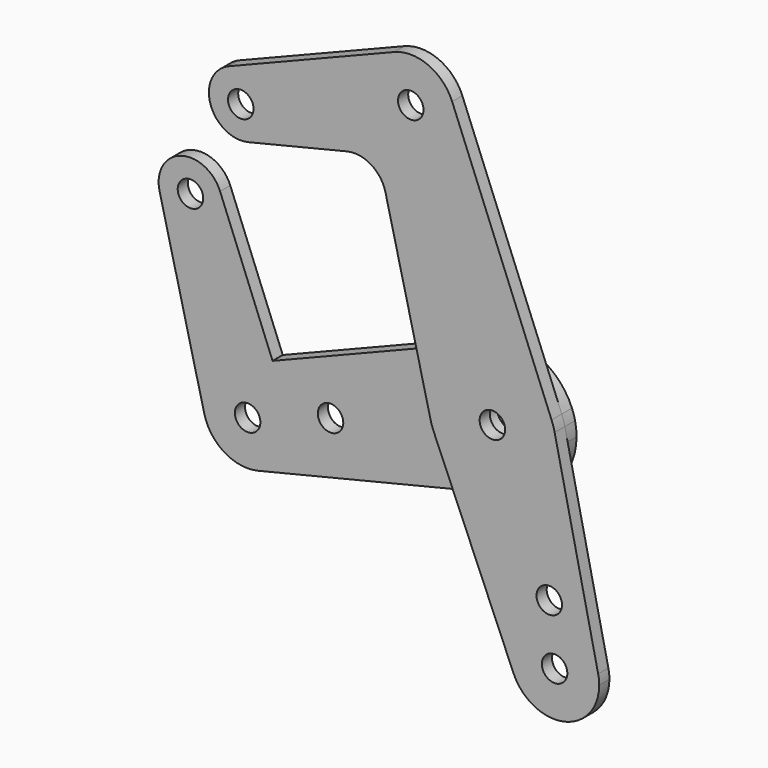
from build123d import *

# Parameters (mm, degrees)
F0_R     = 3.175
F0_R_2   = 3.9751
F1_DEPTH = 3.175
F2_DEPTH = 3.175


with BuildPart() as f1:
    # F0 (on Front) → F1 (new body)
    with BuildSketch(Plane.XZ):
        with BuildLine():
            ThreePointArc((-65.6172653325, 57.3140615488), (-58.215982182, 56.5213450997), (-54.7257527872, 49.9467203641))
            ThreePointArc((-54.7257527872, 49.9467203641), (-56.4230836871, 45.0411932922), (-60.7891722147, 42.2336322499))
            Line((-60.7891722147, 42.2336322499), (-36.2299590675, 48.2008847372))
            ThreePointArc((-36.2299590675, 48.2008847372), (-30.217472055, 47.2654543159), (-26.6274509109, 42.3525347834))
            Line((-26.6274509109, 42.3525347834), (-18.6733882929, 9.6162764074))
            Line((-18.6733882929, 9.6162764074), (-5.9080250905, 14.7346823695))
            ThreePointArc((-5.9080250905, 14.7346823695), (6.2413892171, 14.596598427), (14.7346823695, 5.9080250905))
            Line((14.7346823695, 5.9080250905), (-10.0156417952, 67.6356175634))
            ThreePointArc((-10.0156417952, 67.6356175634), (-9.418799742, 65.6059731442), (-9.2174194538, 63.5))
            ThreePointArc((-9.2174194538, 63.5), (-26.5560983011, 54.2955253702), (-24.4655370172, 73.8142776586))
            Line((-24.4655370172, 73.8142776586), (-65.6172653325, 57.3140615488))
        make_face()
        with BuildLine():
            Line((26.343839333, -45.9997429117), (15.5062527029, 3.4017278132))
            ThreePointArc((15.5062527029, 3.4017278132), (15.7825439435, 1.7108277736), (15.875, 0))
            ThreePointArc((15.875, 0), (12.4803382001, -9.8110541438), (3.748161145, -15.4261762285))
            Line((3.748161145, -15.4261762285), (-9.3167417356, -18.6006091284))
            Line((-9.3167417356, -18.6006091284), (5.270395532, -52.7465368502))
            ThreePointArc((5.270395532, -52.7465368502), (12.1011425321, -37.7976190476), (26.343839333, -45.9997429117))
        make_face()
        with Locations((14.1607330189, -33.8178133593)):
            Circle(F0_R, mode=Mode.SUBTRACT)
        with BuildLine():
            ThreePointArc((15.5062527029, 3.4017278132), (15.1723076697, 4.6708355759), (14.7346823695, 5.9080250905))
            ThreePointArc((14.7346823695, 5.9080250905), (6.2413892171, 14.596598427), (-5.9080250905, 14.7346823695))
            ThreePointArc((-5.9080250905, 14.7346823695), (-14.1135010743, 7.2680611187), (-15.4261762285, -3.748161145))
            ThreePointArc((-15.4261762285, -3.748161145), (-15.0638913216, -5.0094713546), (-14.598667013, -6.2365492417))
            ThreePointArc((-14.598667013, -6.2365492417), (-7.1095485396, -14.1940108695), (3.748161145, -15.4261762285))
            ThreePointArc((3.748161145, -15.4261762285), (12.4803382001, -9.8110541438), (15.875, 0))
            ThreePointArc((15.875, 0), (15.7825439435, 1.7108277736), (15.5062527029, 3.4017278132))
        make_face()
        Circle(F0_R_2, mode=Mode.SUBTRACT)
        Circle(F0_R_2)
        Circle(F0_R, mode=Mode.SUBTRACT)
        with BuildLine():
            ThreePointArc((26.601962441, -48.380952381), (26.5372432015, -47.1833729394), (26.343839333, -45.9997429117))
            ThreePointArc((26.343839333, -45.9997429117), (12.1011425321, -37.7976190476), (5.270395532, -52.7465368502))
            ThreePointArc((5.270395532, -52.7465368502), (17.7174969137, -59.2678031027), (26.601962441, -48.380952381))
        make_face()
        with Locations((15.489462441, -48.380952381)):
            Circle(F0_R, mode=Mode.SUBTRACT)
        with BuildLine():
            ThreePointArc((-10.0156417952, 67.6356175634), (-15.9609470018, 73.7176188989), (-24.4655370172, 73.8142776586))
            ThreePointArc((-24.4655370172, 73.8142776586), (-26.5560983011, 54.2955253702), (-9.2174194538, 63.5))
            ThreePointArc((-9.2174194538, 63.5), (-9.418799742, 65.6059731442), (-10.0156417952, 67.6356175634))
        make_face()
        with Locations((-20.3299194538, 63.5)):
            Circle(F0_R, mode=Mode.SUBTRACT)
        with BuildLine():
            ThreePointArc((-60.7891722147, 42.2336322499), (-56.4230836871, 45.0411932922), (-54.7257527872, 49.9467203641))
            ThreePointArc((-54.7257527872, 49.9467203641), (-58.215982182, 56.5213450997), (-65.6172653325, 57.3140615488))
            ThreePointArc((-65.6172653325, 57.3140615488), (-70.2227765967, 47.5264918577), (-60.7891722147, 42.2336322499))
        make_face()
        with Locations((-62.6632527872, 49.9467203641)):
            Circle(F0_R, mode=Mode.SUBTRACT)
        with BuildLine():
            Line((-5.9080250905, 14.7346823695), (-18.6733882929, 9.6162764074))
            Line((-18.6733882929, 9.6162764074), (-15.4261762285, -3.748161145))
            ThreePointArc((-15.4261762285, -3.748161145), (-14.1135010743, 7.2680611187), (-5.9080250905, 14.7346823695))
        make_face()
        with BuildLine():
            ThreePointArc((3.748161145, -15.4261762285), (-7.1095485396, -14.1940108695), (-14.598667013, -6.2365492417))
            Line((-14.598667013, -6.2365492417), (-9.3167417356, -18.6006091284))
            Line((-9.3167417356, -18.6006091284), (3.748161145, -15.4261762285))
        make_face()
    extrude(amount=F1_DEPTH)


with BuildPart() as f2:
    # F0 (on Front) → F2 (new body)
    with BuildSketch(Plane.XZ):
        with BuildLine():
            Line((-15.4261762285, -3.748161145), (-18.6733882929, 9.6162764074))
            Line((-18.6733882929, 9.6162764074), (-57.2861116204, -5.8658990826))
            Line((-57.2861116204, -5.8658990826), (-53.1716812698, -16.2294940542))
            ThreePointArc((-53.1716812698, -16.2294940542), (-52.5853058188, -18.2425509716), (-52.3875, -20.3299194538))
            ThreePointArc((-52.3875, -20.3299194538), (-54.7637632599, -27.1976573545), (-60.8762871985, -31.1282428138))
            Line((-60.8762871985, -31.1282428138), (-9.3167417356, -18.6006091284))
            Line((-9.3167417356, -18.6006091284), (-14.598667013, -6.2365492417))
            ThreePointArc((-14.598667013, -6.2365492417), (-15.0638913216, -5.0094713546), (-15.4261762285, -3.748161145))
        make_face()
        with Locations((-42.8498, -13.7186296475)):
            Circle(F0_R, mode=Mode.SUBTRACT)
        with BuildLine():
            Line((-67.6356175634, -10.0156417952), (-57.2861116204, -5.8658990826))
            Line((-57.2861116204, -5.8658990826), (-70.3535730961, 27.0489558316))
            ThreePointArc((-70.3535730961, 27.0489558316), (-69.9347334883, 25.6110580334), (-69.7934436177, 24.1200805462))
            ThreePointArc((-69.7934436177, 24.1200805462), (-76.7737744608, 16.2405035616), (-85.4375969292, 22.2197119014))
            Line((-85.4375969292, 22.2197119014), (-74.2893146361, -22.9904355564))
            ThreePointArc((-74.2893146361, -22.9904355564), (-73.3881099598, -15.2591268459), (-67.6356175634, -10.0156417952))
        make_face()
        with BuildLine():
            ThreePointArc((-52.3875, -20.3299194538), (-52.5853058188, -18.2425509716), (-53.1716812698, -16.2294940542))
            ThreePointArc((-53.1716812698, -16.2294940542), (-59.1136145963, -10.1197637577), (-67.6356175634, -10.0156417952))
            ThreePointArc((-67.6356175634, -10.0156417952), (-73.3881099598, -15.2591268459), (-74.2893146361, -22.9904355564))
            ThreePointArc((-74.2893146361, -22.9904355564), (-69.2641339393, -29.8305729145), (-60.8762871985, -31.1282428138))
            ThreePointArc((-60.8762871985, -31.1282428138), (-54.7637632599, -27.1976573545), (-52.3875, -20.3299194538))
        make_face()
        with Locations((-63.5, -20.3299194538)):
            Circle(F0_R, mode=Mode.SUBTRACT)
        with BuildLine():
            Line((-53.1716812698, -16.2294940542), (-57.2861116204, -5.8658990826))
            Line((-57.2861116204, -5.8658990826), (-67.6356175634, -10.0156417952))
            ThreePointArc((-67.6356175634, -10.0156417952), (-59.1136145963, -10.1197637577), (-53.1716812698, -16.2294940542))
        make_face()
        with BuildLine():
            ThreePointArc((-69.7934436177, 24.1200805462), (-69.9347334883, 25.6110580334), (-70.3535730961, 27.0489558316))
            ThreePointArc((-70.3535730961, 27.0489558316), (-80.1511721241, 31.6796043557), (-85.4375969292, 22.2197119014))
            ThreePointArc((-85.4375969292, 22.2197119014), (-76.7737744608, 16.2405035616), (-69.7934436177, 24.1200805462))
        make_face()
        with Locations((-77.7309436177, 24.1200805462)):
            Circle(F0_R, mode=Mode.SUBTRACT)
        with BuildLine():
            ThreePointArc((15.5062527029, 3.4017278132), (15.1723076697, 4.6708355759), (14.7346823695, 5.9080250905))
            ThreePointArc((14.7346823695, 5.9080250905), (6.2413892171, 14.596598427), (-5.9080250905, 14.7346823695))
            ThreePointArc((-5.9080250905, 14.7346823695), (-14.1135010743, 7.2680611187), (-15.4261762285, -3.748161145))
            ThreePointArc((-15.4261762285, -3.748161145), (-15.0638913216, -5.0094713546), (-14.598667013, -6.2365492417))
            ThreePointArc((-14.598667013, -6.2365492417), (-7.1095485396, -14.1940108695), (3.748161145, -15.4261762285))
            ThreePointArc((3.748161145, -15.4261762285), (12.4803382001, -9.8110541438), (15.875, 0))
            ThreePointArc((15.875, 0), (15.7825439435, 1.7108277736), (15.5062527029, 3.4017278132))
        make_face()
        Circle(F0_R_2, mode=Mode.SUBTRACT)
        with BuildLine():
            ThreePointArc((3.748161145, -15.4261762285), (-7.1095485396, -14.1940108695), (-14.598667013, -6.2365492417))
            Line((-14.598667013, -6.2365492417), (-9.3167417356, -18.6006091284))
            Line((-9.3167417356, -18.6006091284), (3.748161145, -15.4261762285))
        make_face()
        with BuildLine():
            Line((-5.9080250905, 14.7346823695), (-18.6733882929, 9.6162764074))
            Line((-18.6733882929, 9.6162764074), (-15.4261762285, -3.748161145))
            ThreePointArc((-15.4261762285, -3.748161145), (-14.1135010743, 7.2680611187), (-5.9080250905, 14.7346823695))
        make_face()
    extrude(amount=-F2_DEPTH)


solid = Compound([f1.part, f2.part])
